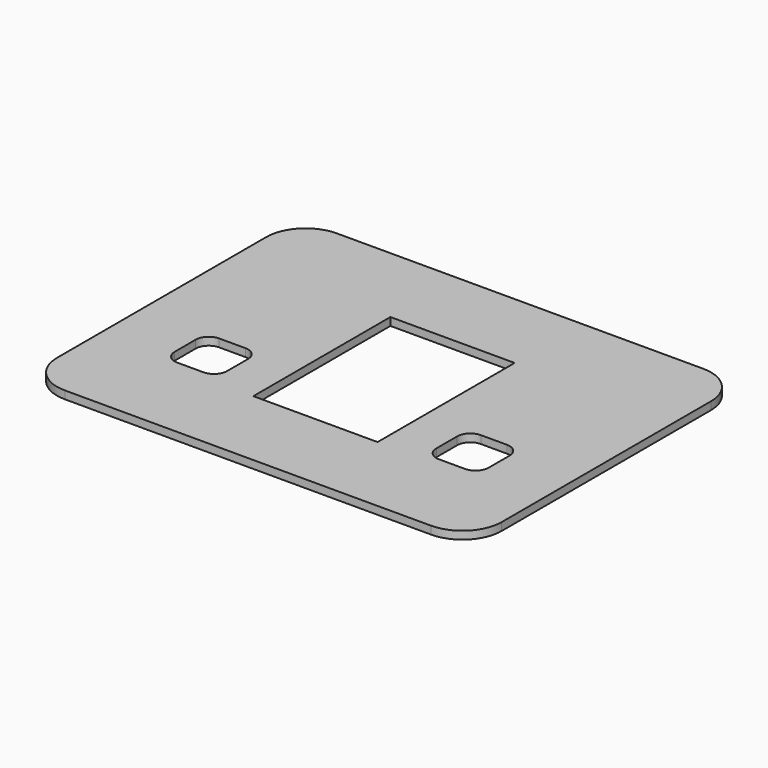
from build123d import *

# Parameters (mm, degrees)
F0_W     = 47.5
F0_H     = 65.5
F1_DEPTH = 3


with BuildPart() as f1:
    # F0 (on Top) → F1 (new body)
    with BuildSketch(Plane.XY):
        with BuildLine():
            Line((70, 65), (-70, 65))
            ThreePointArc((-70, 65), (-80.606602, 60.606602), (-85, 50))
            Line((-85, 50), (-85, -50))
            ThreePointArc((-85, -50), (-80.606602, -60.606602), (-70, -65))
            Line((-70, -65), (70, -65))
            ThreePointArc((70, -65), (80.606602, -60.606602), (85, -50))
            Line((85, -50), (85, 50))
            ThreePointArc((85, 50), (80.606602, 60.606602), (70, 65))
        make_face()
        with BuildLine():
            ThreePointArc((-60, -15), (-58.535534, -11.464466), (-55, -10))
            Line((-55, -10), (-45, -10))
            ThreePointArc((-45, -10), (-41.464466, -11.464466), (-40, -15))
            Line((-40, -15), (-40, -25))
            ThreePointArc((-40, -25), (-41.464466, -28.535534), (-45, -30))
            Line((-45, -30), (-55, -30))
            ThreePointArc((-55, -30), (-58.535534, -28.535534), (-60, -25))
            Line((-60, -25), (-60, -15))
        make_face(mode=Mode.SUBTRACT)
        with BuildLine():
            Line((45, -10), (55, -10))
            ThreePointArc((55, -10), (58.535534, -11.464466), (60, -15))
            Line((60, -15), (60, -25))
            ThreePointArc((60, -25), (58.535534, -28.535534), (55, -30))
            Line((55, -30), (45, -30))
            ThreePointArc((45, -30), (41.464466, -28.535534), (40, -25))
            Line((40, -25), (40, -15))
            ThreePointArc((40, -15), (41.464466, -11.464466), (45, -10))
        make_face(mode=Mode.SUBTRACT)
        Rectangle(F0_W, F0_H, mode=Mode.SUBTRACT)
    extrude(amount=F1_DEPTH)


solid = f1.part
